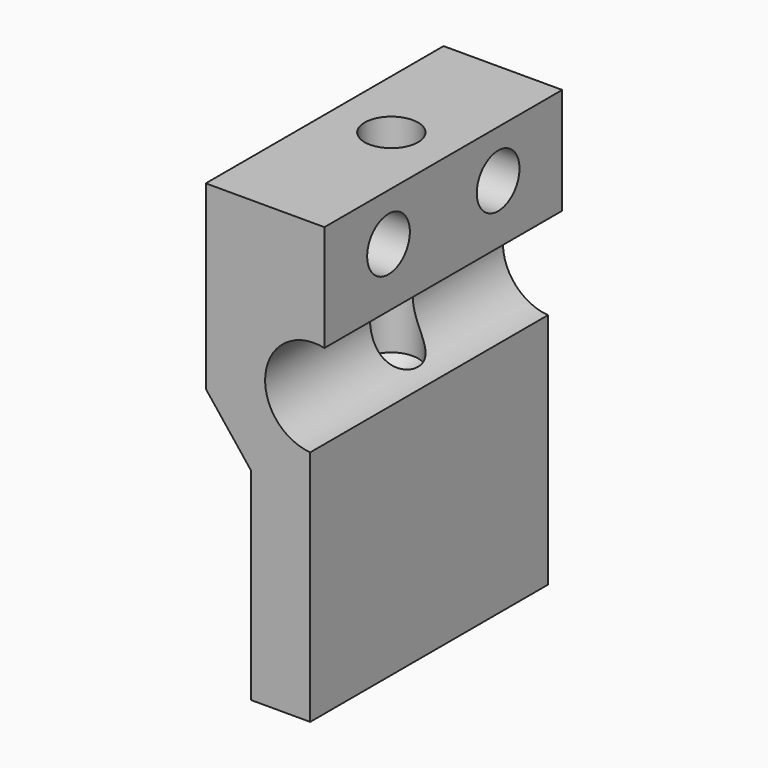
from build123d import *

# Parameters (mm, degrees)
F1_DEPTH = 50.1
F3_D     = 9
F5_D     = 9
F5_DEPTH = 35
F5_TIP   = 2.7038727856


with BuildPart() as f1:
    # F0 (on Front) → F1 (new body)
    with BuildSketch(Plane.XZ):
        with BuildLine():
            Line((0, 20.1881089388), (0, 38.1235034296))
            Line((0, 38.1235034296), (-20, 38.1235034296))
            Line((-20, 38.1235034296), (-20, 7.6235034296))
            Line((-20, 7.6235034296), (-12.4, -1.9764965704))
            Line((-12.4, -1.9764965704), (-12.4, -36.0764965704))
            Line((-12.4, -36.0764965704), (-2.4, -36.0764965704))
            Line((-2.4, -36.0764965704), (-2.4, 3.9235034296))
            ThreePointArc((-2.4, 3.9235034296), (-9.9117323022, 13.3413066234), (0, 20.1881089388))
        make_face()
    extrude(amount=-F1_DEPTH)

    # F3 (through all)
    with Locations(Plane.YZ):
        with Locations((13.5, 30.1235034296), (36.6, 30.1235034296)):
            Hole(F3_D / 2)

    # F5
    with Locations(Plane.XY.offset(38.1235034296)):
        with Locations((-10, 26.6)):
            Hole(F5_D / 2, depth=F5_DEPTH)
            with Locations((0, 0, -(F5_DEPTH + F5_TIP / 2))):  # 118° drill point
                Cone(0, F5_D / 2, F5_TIP, mode=Mode.SUBTRACT)


solid = f1.part
